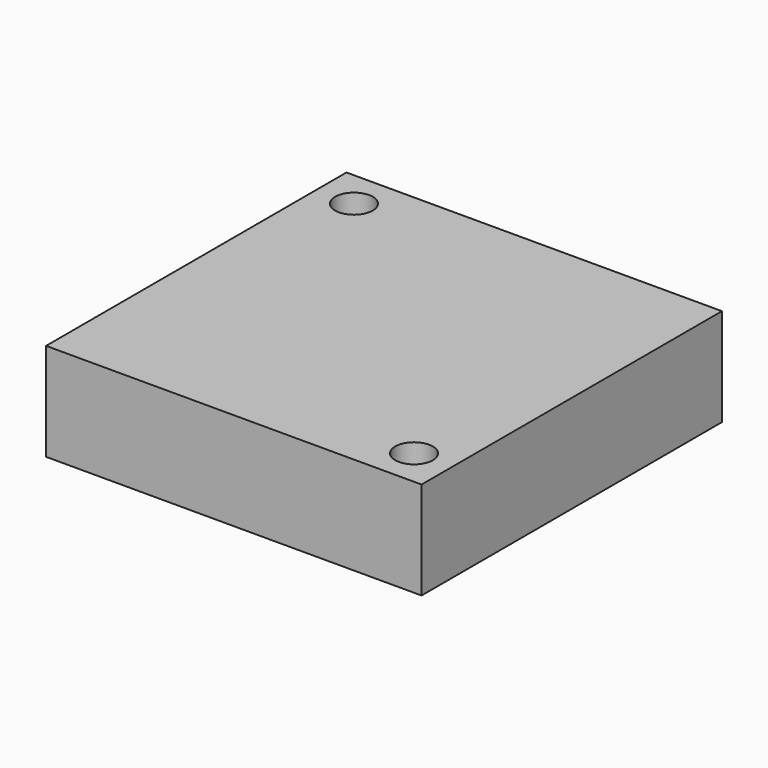
from build123d import *

# Parameters (mm, degrees)
F2_DEPTH = 63.5
F4_R     = 6.35
F5_DEPTH = 50.8


with BuildPart() as f2:
    # F1 (on Front) → F2 (new body, symmetric)
    with BuildSketch(Plane.XZ):
        Polygon((-63.5, 40.386), (-63.5, 0), (63.5, 0), (63.5, 40.386), (0, 40.386), align=None)
    extrude(amount=F2_DEPTH, both=True)

    # F0 (on Front) → F3 (revolve, cut)
    with BuildSketch(Plane.XZ):
        Polygon((0, 2.286), (0, 0), (38.1, 0), (91.416501, 0), (91.416501, 7.332348), (50.8, 7.332348), (46.840532, 7.332348), (38.1, 2.286), align=None)
    revolve(axis=Axis((0, 0, 1.143), (0, 0, -1)), mode=Mode.SUBTRACT)

    # F4 (on Top) → F5 (cut, symmetric)
    with BuildSketch(Plane.XY):
        with Locations((-50.8, 50.8)):
            Circle(F4_R)
        with Locations((50.8, -50.8)):
            Circle(F4_R)
    extrude(amount=F5_DEPTH, both=True, mode=Mode.SUBTRACT)


solid = f2.part
